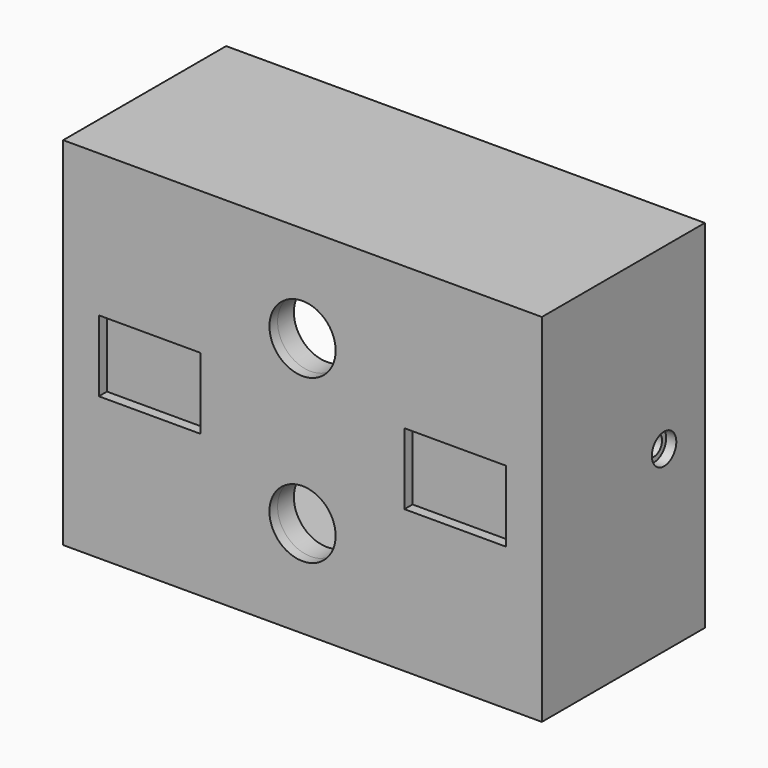
from build123d import *

# Parameters (mm, degrees)
F0_W      = 47
F0_H      = 35
F1_DEPTH  = 19
F2_T      = -2
F3_R      = 3.25
F4_DEPTH  = 19.001
F1_FACE_W = 47
F1_FACE_H = 35
F1_FACE_R = 3.25
F5_DEPTH  = 1
F7_R      = 1
F8_DEPTH  = 47.001
F9_R      = 1.5
F10_DEPTH = 1
F11_R     = 1.5
F12_DEPTH = 1
F13_W     = 10
F13_H     = 7
F14_DEPTH = 1


with BuildPart() as f1:
    # F0 (on Front) → F1 (new body)
    with BuildSketch(Plane.XZ):
        Rectangle(F0_W, F0_H)
    extrude(amount=F1_DEPTH)

    # F2
    f2_openings = [f1.faces().sort_by_distance(p)[0] for p in [
        (0, 0, 0),
    ]]
    offset(amount=F2_T, openings=f2_openings)

    # F3 (on face) → F4 (cut, through all)
    with BuildSketch(Plane.XZ.offset(19)):
        with Locations((0, 8)):
            Circle(F3_R)
        with Locations((0, -8)):
            Circle(F3_R)
    extrude(amount=-F4_DEPTH, mode=Mode.SUBTRACT)

    # F1_face (on face) → F5 (join)
    with BuildSketch(Plane.XZ.offset(19)):
        Rectangle(F1_FACE_W, F1_FACE_H)
        with Locations((0, -8)):
            Circle(F1_FACE_R, mode=Mode.SUBTRACT)
        with Locations((0, 8)):
            Circle(F1_FACE_R, mode=Mode.SUBTRACT)
    extrude(amount=F5_DEPTH)

    # F7 (on face) → F8 (cut, through all)
    with BuildSketch(Plane(origin=(-23.5, 0, 0), x_dir=(0, -1, 0), z_dir=(-1, 0, 0))):
        with Locations((5, 0)):
            Circle(F7_R)
    extrude(amount=-F8_DEPTH, mode=Mode.SUBTRACT)

    # F9 (on face) → F10 (cut)
    with BuildSketch(Plane(origin=(-23.5, 0, 0), x_dir=(0, -1, 0), z_dir=(-1, 0, 0))):
        with Locations((5, 0)):
            Circle(F9_R)
    extrude(amount=-F10_DEPTH, mode=Mode.SUBTRACT)

    # F11 (on face) → F12 (cut)
    with BuildSketch(Plane.YZ.offset(23.5)):
        with Locations((-5, 0)):
            Circle(F11_R)
    extrude(amount=-F12_DEPTH, mode=Mode.SUBTRACT)

    # F13 (on face) → F14 (cut)
    with BuildSketch(Plane.XZ.offset(20)):
        with Locations((-15, 0)):
            Rectangle(F13_W, F13_H)
        with Locations((15, 0)):
            Rectangle(F13_W, F13_H)
    extrude(amount=-F14_DEPTH, mode=Mode.SUBTRACT)


solid = f1.part
